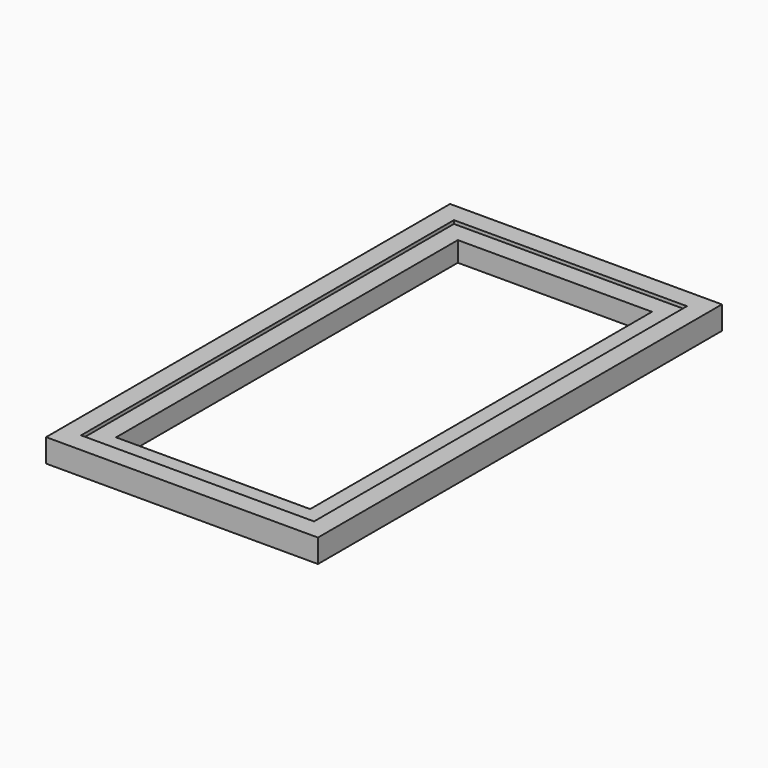
from build123d import *

# Parameters (mm, degrees)
F0_W     = 88.8365
F0_H     = 164.9984
F0_W_2   = 76.1365
F0_H_2   = 152.2984
F0_W_3   = 63.4365
F0_H_3   = 139.5984
F1_DEPTH = 7.62
F2_W     = 76.1365
F2_H     = 152.2984
F3_DEPTH = 1.1


with BuildPart() as f1:
    # F0 (on Top) → F1 (new body)
    with BuildSketch(Plane.XY):
        Rectangle(F0_W, F0_H)
        Rectangle(F0_W_2, F0_H_2, mode=Mode.SUBTRACT)
        Rectangle(F0_W_2, F0_H_2)
        Rectangle(F0_W_3, F0_H_3, mode=Mode.SUBTRACT)
    extrude(amount=F1_DEPTH)

    # F2 (on face) → F3 (cut)
    with BuildSketch(Plane.XY.offset(7.62)):
        Rectangle(F2_W, F2_H)
    extrude(amount=-F3_DEPTH, mode=Mode.SUBTRACT)


solid = f1.part
